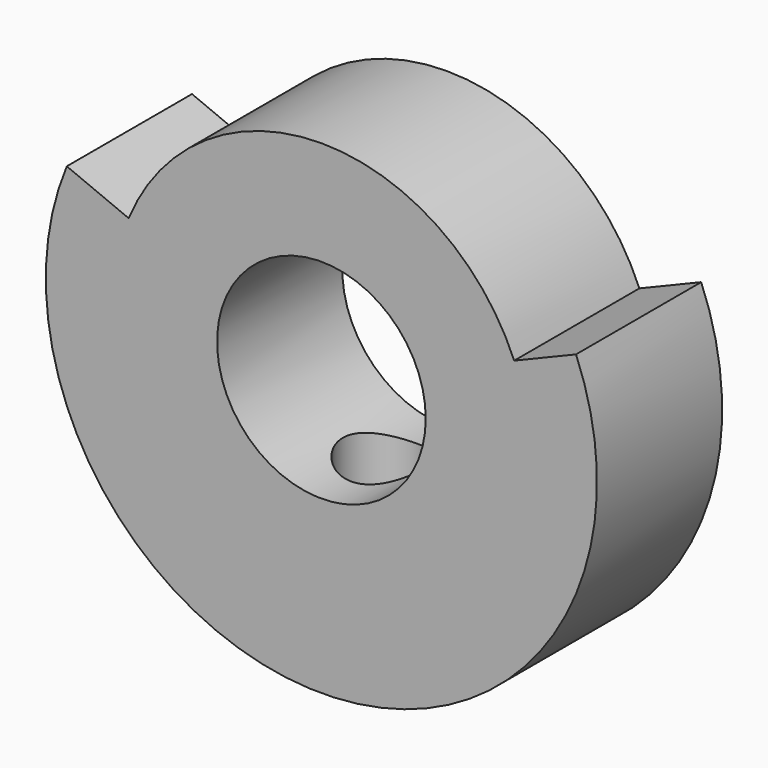
from build123d import *

# Parameters (mm, degrees)
F0_R     = 3.175
F1_DEPTH = 2.38125
F3_D     = 2.5
F3_DEPTH = 8.3885


with BuildPart() as f1:
    # F0 (on Front) → F1 (new body, symmetric)
    with BuildSketch(Plane.XZ):
        with BuildLine():
            Line((-5.8666350314, 2.4300397955), (-7.7490395789, 3.209757289))
            ThreePointArc((-7.7490395789, 3.209757289), (0, -8.3875), (7.7490395789, 3.209757289))
            Line((7.7490395789, 3.209757289), (5.8666350314, 2.4300397955))
            ThreePointArc((5.8666350314, 2.4300397955), (0, 6.35), (-5.8666350314, 2.4300397955))
        make_face()
        Circle(F0_R, mode=Mode.SUBTRACT)
    extrude(amount=F1_DEPTH, both=True)

    # F3 (through all, one way)
    with BuildSketch(Plane.XY):
        with Locations((0, 0)):
            Circle(F3_D / 2)
    extrude(amount=-F3_DEPTH, mode=Mode.SUBTRACT)


solid = f1.part
